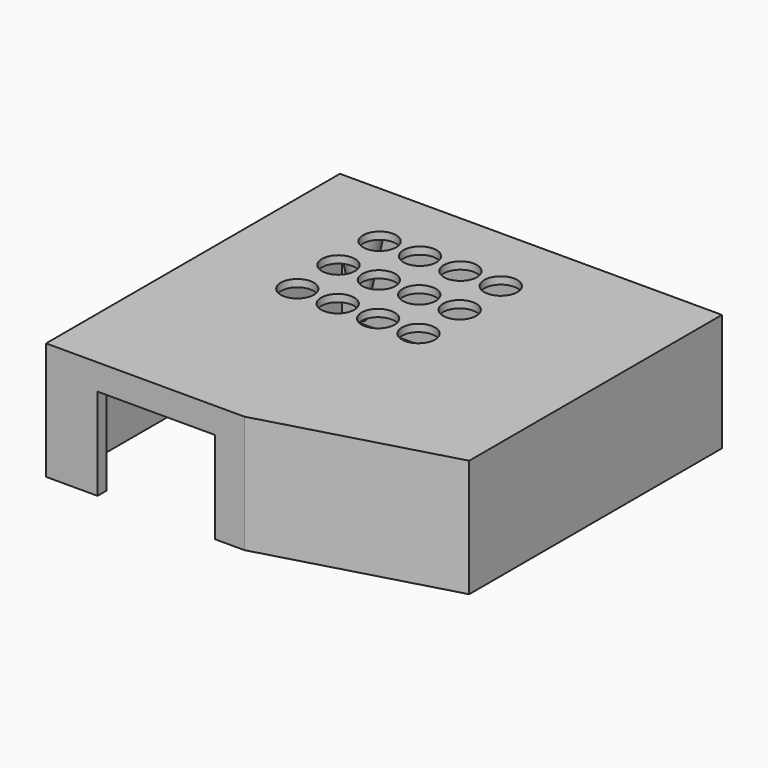
from build123d import *

# Parameters (mm, degrees)
SKETCH018_W           = 32
SKETCH018_H           = 32
EXTRUDE017_DEPTH      = 10
SKETCH_R              = 2.1
EXTRUDE002_DEPTH      = 20
SKETCH003_R           = 4.5
EXTRUDE003_DEPTH      = 3
EXTRUDE003_DEPTH_BACK = 1
EXTRUDE001_DEPTH      = 2
SKETCH011_R           = 1.1
EXTRUDE010_DEPTH      = 25
EXTRUDE_DEPTH         = 30


with BuildPart() as cone001:
    # Cone001 → Cone001 (revolve)
    with BuildSketch(Plane(origin=(-91.1, -9.1, -19.4), x_dir=(1, 0, 0), z_dir=(0, -1, 0))):
        Polygon((0, 0), (2.1, 0), (6, 20), (0, 20), align=None)
    revolve(axis=Axis((-91.1, -9.1, -19.4), (0, 0, 1)))


with BuildPart() as cone002:
    # Cone002 → Cone002 (revolve)
    with BuildSketch(Plane(origin=(-33, -58.1, -19.4), x_dir=(1, 0, 0), z_dir=(0, -1, 0))):
        Polygon((0, 0), (2.1, 0), (6, 20), (0, 20), align=None)
    revolve(axis=Axis((-33, -58.1, -19.4), (0, 0, 1)))


with BuildPart() as cone003:
    # Cone003 → Cone003 (revolve)
    with BuildSketch(Plane(origin=(-90.9, -58.2, -19.4), x_dir=(1, 0, 0), z_dir=(0, -1, 0))):
        Polygon((0, 0), (2.1, 0), (6, 20), (0, 20), align=None)
    revolve(axis=Axis((-90.9, -58.2, -19.4), (0, 0, 1)))


with BuildPart() as extrude017:
    # Sketch018 (on Face8 of Fusion) → Extrude017 (new body, symmetric)
    with BuildSketch(Plane.XZ.offset(100)):
        with Locations((-74, -21)):
            Rectangle(SKETCH018_W, SKETCH018_H)
    extrude(amount=EXTRUDE017_DEPTH, both=True)


with BuildPart() as extrude002:
    # Sketch → Extrude002 (new body)
    with BuildSketch(Plane.XY):
        with Locations((-91, -9)):
            Circle(SKETCH_R)
        with Locations((-33, -9)):
            Circle(SKETCH_R)
        with Locations((-33, -58)):
            Circle(SKETCH_R)
        with Locations((-91, -58)):
            Circle(SKETCH_R)
    extrude(amount=-EXTRUDE002_DEPTH)


with BuildPart() as extrude003:
    # Sketch003 → Extrude003 (new body, two sides)
    with BuildSketch(Plane.XY) as extrude003_sk:
        with Locations((-78, -19)):
            Circle(SKETCH003_R)
        with Locations((-67, -19)):
            Circle(SKETCH003_R)
        with Locations((-56, -19)):
            Circle(SKETCH003_R)
        with Locations((-45, -19)):
            Circle(SKETCH003_R)
        with Locations((-78, -33)):
            Circle(SKETCH003_R)
        with Locations((-67, -33)):
            Circle(SKETCH003_R)
        with Locations((-56, -33)):
            Circle(SKETCH003_R)
        with Locations((-45, -33)):
            Circle(SKETCH003_R)
        with Locations((-78, -47)):
            Circle(SKETCH003_R)
        with Locations((-67, -47)):
            Circle(SKETCH003_R)
        with Locations((-56, -47)):
            Circle(SKETCH003_R)
        with Locations((-45, -47)):
            Circle(SKETCH003_R)
    extrude(amount=EXTRUDE003_DEPTH)
    extrude(extrude003_sk.sketch, amount=-EXTRUDE003_DEPTH_BACK)


with BuildPart() as cut:
    # Sketch002 → Extrude001 (new body)
    with BuildSketch(Plane.XY):
        Polygon((0, 0), (0, -86), (-50, -100), (-104, -100), (-104, 0), align=None)
    extrude(amount=EXTRUDE001_DEPTH)

    # Cut: cut Extrude003
    add(extrude003.part, mode=Mode.SUBTRACT)


with BuildPart() as extrude010:
    # Sketch011 → Extrude010 (new body)
    with BuildSketch(Plane.XY):
        with Locations((-91, -9)):
            Circle(SKETCH011_R)
        with Locations((-33, -9)):
            Circle(SKETCH011_R)
        with Locations((-33, -58)):
            Circle(SKETCH011_R)
        with Locations((-91, -58)):
            Circle(SKETCH011_R)
    extrude(amount=-EXTRUDE010_DEPTH)


with BuildPart() as cut004:
    # Sketch001 → Extrude (new body)
    with BuildSketch(Plane.XY):
        Polygon((0, 0), (0, -86), (-50, -100), (-104, -100), (-104, 0), align=None)
        Polygon((-3, -3), (-3, -83.84), (-50, -97), (-101, -97), (-101, -3), align=None, mode=Mode.SUBTRACT)
    extrude(amount=-EXTRUDE_DEPTH)

    # Fusion: union Extrude002, Cut, Extrude010
    add(extrude002.part)
    add(cut.part)
    add(extrude010.part)

    # Cut004: cut Extrude017
    add(extrude017.part, mode=Mode.SUBTRACT)


with BuildPart() as fusion003:
    # Cone → Cone (revolve)
    with BuildSketch(Plane(origin=(-33, -9.1, -19.4), x_dir=(1, 0, 0), z_dir=(0, -1, 0))):
        Polygon((0, 0), (2.1, 0), (6, 20), (0, 20), align=None)
    revolve(axis=Axis((-33, -9.1, -19.4), (0, 0, 1)))

    # Fusion003: union Cone001, Cone002, Cone003, Cut004
    add(cone001.part)
    add(cone002.part)
    add(cone003.part)
    add(cut004.part)


solid = fusion003.part
